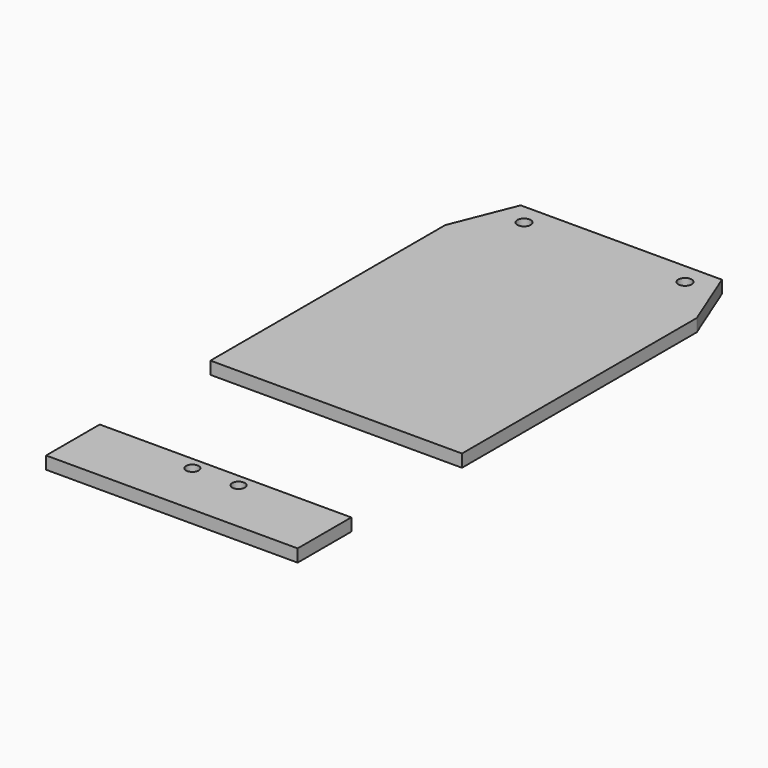
from build123d import *

# Parameters (mm, degrees)
F0_R     = 1.6
F1_DEPTH = 3
F2_W     = 60
F2_H     = 16
F2_R     = 1.5
F3_DEPTH = 3


with BuildPart() as f1:
    # F0 (on Top) → F1 (new body)
    with BuildSketch(Plane.XY):
        Polygon((24, 42.5), (-24, 42.5), (-30, 27.5), (-30, -42.5), (30, -42.5), (30, 27.5), align=None)
        with Locations((-19.2, 37.5)):
            Circle(F0_R, mode=Mode.SUBTRACT)
        with Locations((19.2, 37.5)):
            Circle(F0_R, mode=Mode.SUBTRACT)
    extrude(amount=F1_DEPTH)


with BuildPart() as f3:
    # F2 (on Top) → F3 (new body)
    with BuildSketch(Plane.XY):
        with Locations((0, -83.500003)):
            Rectangle(F2_W, F2_H)
        with Locations((-5.5, -78.500003)):
            Circle(F2_R, mode=Mode.SUBTRACT)
        with Locations((5.5, -78.500003)):
            Circle(F2_R, mode=Mode.SUBTRACT)
    extrude(amount=F3_DEPTH)


solid = Compound([f1.part, f3.part])
